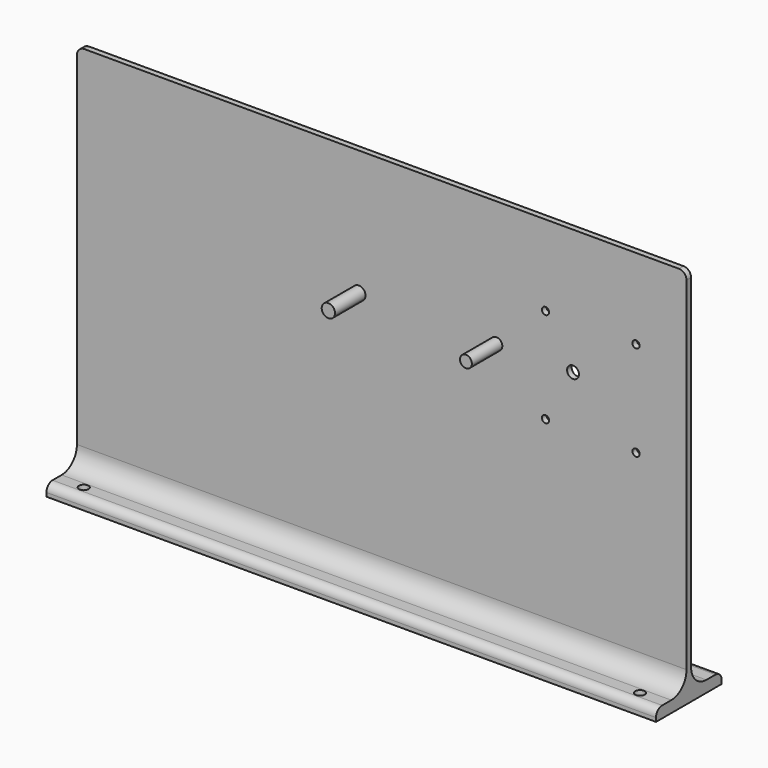
from build123d import *

# Parameters (mm, degrees)
F0_W      = 406.4
F0_H      = 254
F1_DEPTH  = 3.81
F2_W      = 406.4
F2_H      = 54.61
F3_DEPTH  = 7.62
F4_R      = 12.7
F5_R      = 5.08
F6_R      = 2.413
F6_R_2    = 3.96748
F7_DEPTH  = 29.211
F8_R      = 3.9624
F9_DEPTH  = 25.4
F10_R     = 4.445
F11_DEPTH = 25.4
F13_D     = 6.35


with BuildPart() as f1:
    # F0 (on Front) → F1 (new body)
    with BuildSketch(Plane.XZ):
        with Locations((203.2, 127)):
            Rectangle(F0_W, F0_H)
    extrude(amount=F1_DEPTH)

    # F2 (on face) → F3 (join)
    with BuildSketch(Plane(origin=(0, 0, 0), x_dir=(1, 0, 0), z_dir=(0, 0, -1))):
        with Locations((203.2, 1.905)):
            Rectangle(F2_W, F2_H)
    extrude(amount=-F3_DEPTH)

    # F4
    f4_edges = [f1.edges().sort_by_distance(p)[0] for p in [
        (203.2, 0, 7.62),
        (203.2, -3.81, 7.62),
    ]]
    fillet(f4_edges, radius=F4_R)

    # F5
    f5_edges = [f1.edges().sort_by_distance(p)[0] for p in [
        (203.2, -29.21, 7.62),
        (203.2, 25.4, 7.62),
        (406.4, -1.905, 254),
        (0, -1.905, 254),
    ]]
    fillet(f5_edges, radius=F5_R)

    # F6 (on face) → F7 (cut, through all)
    with BuildSketch(Plane.XZ.offset(3.81)):
        with Locations((312.4034767258, 200.2879581752)):
            Circle(F6_R)
        with Locations((372.7284767258, 200.2879581752)):
            Circle(F6_R)
        with Locations((312.4034767258, 136.7879581752)):
            Circle(F6_R)
        with Locations((372.7284767258, 136.7879581752)):
            Circle(F6_R)
        with Locations((330.7422767258, 170.3159581752)):
            Circle(F6_R_2)
    extrude(amount=-F7_DEPTH, mode=Mode.SUBTRACT)

    # F8 (on face) → F9 (join)
    with BuildSketch(Plane.XZ.offset(3.81)):
        with Locations((279.654, 170.3159581752)):
            Circle(F8_R)
    extrude(amount=F9_DEPTH)

    # F10 (on face) → F11 (join)
    with BuildSketch(Plane.XZ.offset(3.81)):
        with Locations((187.96, 170.3159581752)):
            Circle(F10_R)
    extrude(amount=F11_DEPTH)

    # F13 (through all)
    with Locations(Plane.XY.offset(7.62)):
        with Locations((388.62, 16.51), (388.62, -20.32), (17.78, 16.51), (17.78, -20.32)):
            Hole(F13_D / 2)


solid = f1.part
